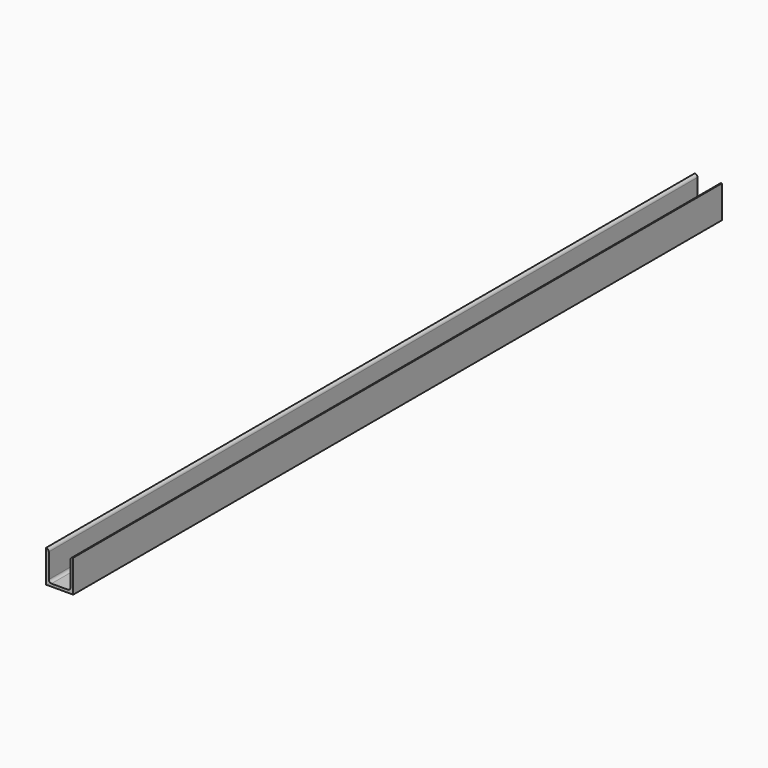
from build123d import *

# Parameters (mm, degrees)
F1_DEPTH = 474.98


with BuildPart() as f1:
    # F0 (on Front) → F1 (new body, symmetric)
    with BuildSketch(Plane.XZ):
        with BuildLine():
            Line((-15.875, -19.05), (15.875, -19.05))
            Line((15.875, -19.05), (15.875, 19.05))
            ThreePointArc((15.875, 19.05), (13.629936, 18.120064), (12.7, 15.875))
            Line((12.7, 15.875), (12.7, -12.7))
            ThreePointArc((12.7, -12.7), (11.770064, -14.945064), (9.525, -15.875))
            Line((9.525, -15.875), (-9.525, -15.875))
            ThreePointArc((-9.525, -15.875), (-11.770064, -14.945064), (-12.7, -12.7))
            Line((-12.7, -12.7), (-12.7, 15.875))
            ThreePointArc((-12.7, 15.875), (-13.629936, 18.120064), (-15.875, 19.05))
            Line((-15.875, 19.05), (-15.875, -19.05))
        make_face()
    extrude(amount=F1_DEPTH, both=True)


solid = f1.part
